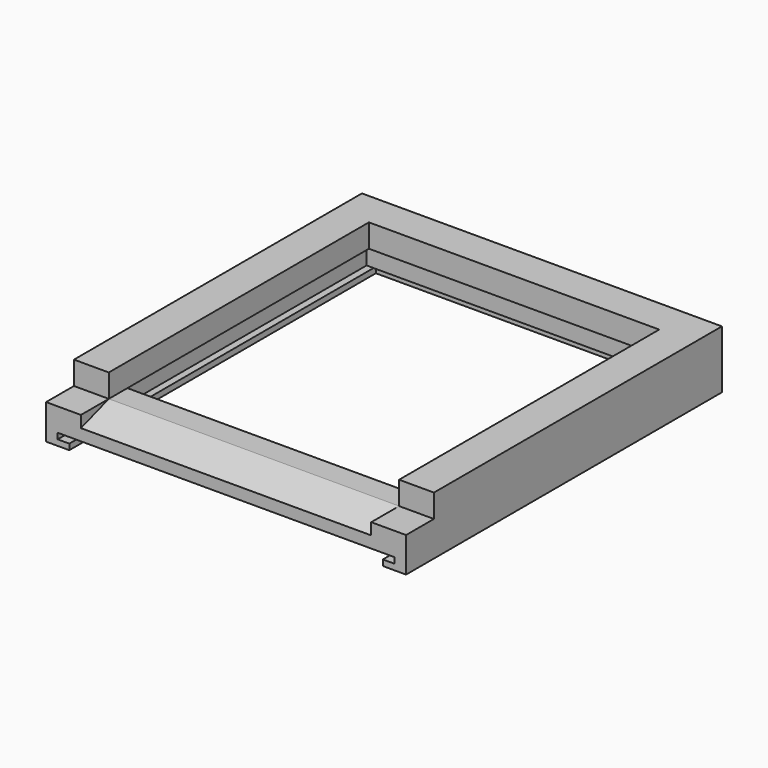
from build123d import *

# Parameters (mm, degrees)
F1_DEPTH  = 30
F2_DEPTH  = 10
F0_W      = 250
F0_H      = 250
F0_H_2    = 30
F3_DEPTH  = 10
F6_DEPTH  = 250
F7_W      = 270
F7_H      = 270
F8_DEPTH  = 10
F9_DEPTH  = 20
F10_W     = 270
F10_H     = 5
F11_DEPTH = 330


with BuildPart() as f1:
    # F0 (on Top) → F1 (new body)
    with BuildSketch(Plane.XY):
        Polygon((125, -155), (155, -155), (155, 155), (-155, 155), (-155, -155), (-125, -155), (-125, -125), (-125, 125), (125, 125), (125, -125), align=None)
    extrude(amount=F1_DEPTH)

    # F0 (on Top) → F2 (join)
    with BuildSketch(Plane.XY):
        Polygon((155, -185), (155, -155), (125, -155), (-125, -155), (-155, -155), (-155, -185), align=None)
        Polygon((125, -155), (155, -155), (155, 155), (-155, 155), (-155, -155), (-125, -155), (-125, -125), (-125, 125), (125, 125), (125, -125), align=None)
    extrude(amount=F2_DEPTH)

    # F0 (on Top) → F3 (join)
    with BuildSketch(Plane.XY):
        Rectangle(F0_W, F0_H)
        Polygon((125, -155), (155, -155), (155, 155), (-155, 155), (-155, -155), (-125, -155), (-125, -125), (-125, 125), (125, 125), (125, -125), align=None)
        Polygon((155, -185), (155, -155), (125, -155), (-125, -155), (-155, -155), (-155, -185), align=None)
        with Locations((0, -140)):
            Rectangle(F0_W, F0_H_2)
    extrude(amount=F3_DEPTH)

    # F5 (on offset) → F6 (cut)
    with BuildSketch(Plane(origin=(-125, 0, 0), x_dir=(0, -1, 0), z_dir=(-1, 0, 0))):
        Polygon((155, 10), (185, 0), (185, 10), align=None)
    extrude(amount=-F6_DEPTH, mode=Mode.SUBTRACT)

    # F7 (on face) → F8 (cut)
    with BuildSketch(Plane(origin=(0, 0, 0), x_dir=(1, 0, 0), z_dir=(0, 0, -1))):
        Rectangle(F7_W, F7_H)
    extrude(amount=-F8_DEPTH, mode=Mode.SUBTRACT)

    # F9 (add): a face of the model
    f9_faces = [f1.faces().sort_by_distance(p)[0] for p in [
        (150.3989131719, -15, 0),
    ]]
    extrude(f9_faces, amount=F9_DEPTH)

    # F10 (on face) → F11 (cut)
    with BuildSketch(Plane.XZ.offset(185)):
        Polygon((145, -10), (-145, -10), (-145, -15), (-135, -15), (135, -15), (145, -15), align=None)
        with Locations((0, -17.5)):
            Rectangle(F10_W, F10_H)
    extrude(amount=-F11_DEPTH, mode=Mode.SUBTRACT)


solid = f1.part
